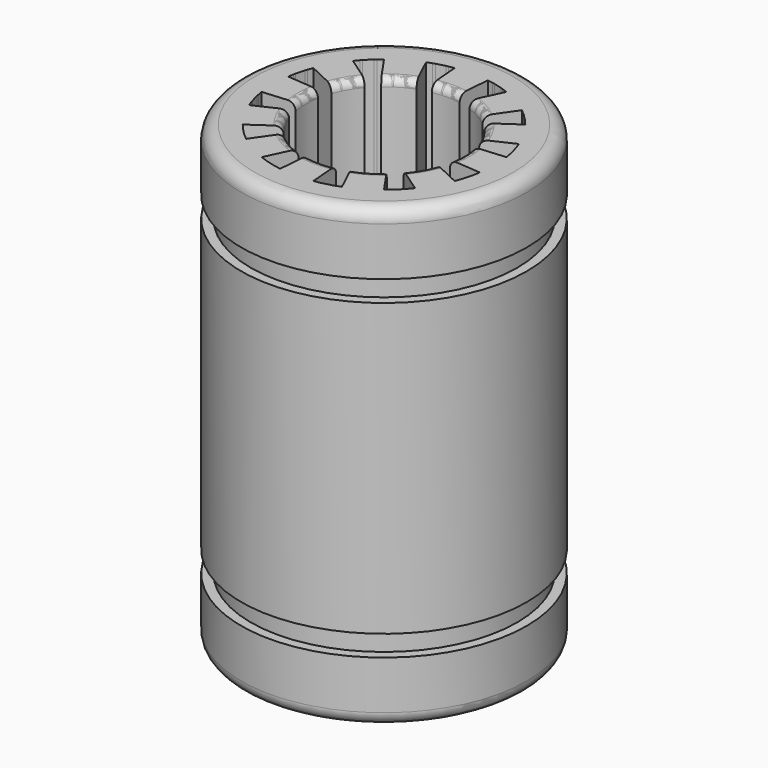
from build123d import *

# Parameters (mm, degrees)
CYLINDER001_R     = 7
CYLINDER001_DEPTH = 1.1
CYLINDER_R        = 7.5
CYLINDER_DEPTH    = 1.1
SKETCH_R          = 7.5
PAD_DEPTH         = 24
FILLET_R          = 0.4
FILLET001_R       = 0.7
SKETCH001_R       = 7.5
PAD001_DEPTH      = 24
FILLET002_R       = 0.4
FILLET003_R       = 0.7


with BuildPart() as cylinder001:
    # Cylinder001 → Cylinder001 (new body)
    with BuildSketch(Plane.XY.offset(3.25)):
        Circle(CYLINDER001_R)
    extrude(amount=CYLINDER001_DEPTH)


with BuildPart() as cut:
    # Cylinder → Cylinder (new body)
    with BuildSketch(Plane.XY.offset(3.25)):
        Circle(CYLINDER_R)
    extrude(amount=CYLINDER_DEPTH)

    # Cut: cut Cylinder001
    add(cylinder001.part, mode=Mode.SUBTRACT)


with BuildPart() as clone_of_cut:
    # Clone base: copy of Cut
    add(cut.part)


with BuildPart() as clone_of_cut_1:
    # Clone placement: moved
    add(clone_of_cut.part.moved(Location((0, 0, 16.4))))


with BuildPart() as fusion:
    # Fusion base: copy of Cut
    add(cut.part)

    # Fusion: union Clone of Cut
    add(clone_of_cut_1.part)


with BuildPart() as cut001:
    # Sketch → Pad (new body)
    with BuildSketch(Plane.XY):
        Circle(SKETCH_R)
        with BuildLine():
            ThreePointArc((0.733127, 4.054248), (0, 4.12), (-0.733127, 4.054248))
            Line((-0.733127, 5.753479), (-0.733127, 4.054248))
            ThreePointArc((-0.733127, 5.753479), (-1.501152, 5.602369), (-2.241836, 5.349222))
            Line((-1.392217, 3.877645), (-2.241836, 5.349222))
            ThreePointArc((-1.392217, 3.877645), (-2.06, 3.568025), (-2.662031, 3.144518))
            Line((-2.662031, 3.144518), (-3.511649, 4.616094))
            ThreePointArc((-3.511649, 4.616094), (-4.101221, 4.101217), (-4.616097, 3.511644))
            Line((-4.616097, 3.511644), (-3.144518, 2.662031))
            ThreePointArc((-3.144518, 2.662031), (-3.568025, 2.06), (-3.877645, 1.392217))
            Line((-3.877645, 1.392217), (-5.349224, 2.24183))
            ThreePointArc((-5.349224, 2.24183), (-5.602371, 1.501146), (-5.75348, 0.733121))
            Line((-5.75348, 0.733121), (-4.054248, 0.733127))
            ThreePointArc((-4.054248, 0.733127), (-4.12, 0), (-4.054248, -0.733127))
            Line((-4.054248, -0.733127), (-5.753478, -0.733134))
            ThreePointArc((-5.753478, -0.733134), (-5.602369, -1.501153), (-5.349224, -2.241831))
            Line((-5.349224, -2.241831), (-3.877645, -1.392217))
            ThreePointArc((-3.877645, -1.392217), (-3.568025, -2.06), (-3.144518, -2.662031))
            Line((-3.144518, -2.662031), (-4.616097, -3.511645))
            ThreePointArc((-4.616097, -3.511645), (-4.101215, -4.101223), (-3.511636, -4.616104))
            Line((-3.511636, -4.616104), (-2.662031, -3.144518))
            ThreePointArc((-2.662031, -3.144518), (-2.06, -3.568025), (-1.392217, -3.877645))
            Line((-1.392217, -3.877645), (-2.24182, -5.349228))
            ThreePointArc((-2.24182, -5.349228), (-1.501143, -5.602372), (-0.733126, -5.75348))
            Line((-0.733126, -5.75348), (-0.733127, -4.054248))
            ThreePointArc((-0.733127, -4.054248), (0, -4.12), (0.733127, -4.054248))
            Line((0.733127, -4.054248), (0.733129, -5.753479))
            ThreePointArc((0.733129, -5.753479), (1.501149, -5.60237), (2.241828, -5.349225))
            Line((2.241828, -5.349225), (1.392217, -3.877645))
            ThreePointArc((1.392217, -3.877645), (2.06, -3.568025), (2.662031, -3.144518))
            Line((3.511643, -4.616099), (2.662031, -3.144518))
            ThreePointArc((3.511643, -4.616099), (4.101217, -4.101221), (4.616095, -3.511647))
            Line((3.144518, -2.662031), (4.616095, -3.511647))
            ThreePointArc((3.144518, -2.662031), (3.568025, -2.06), (3.877645, -1.392217))
            Line((5.349223, -2.241833), (3.877645, -1.392217))
            ThreePointArc((5.349223, -2.241833), (5.602374, -1.501135), (5.753483, -0.733096))
            Line((4.054248, -0.733127), (5.753483, -0.733096))
            ThreePointArc((4.054248, -0.733127), (4.12, 0), (4.054248, 0.733127))
            Line((5.753475, 0.733159), (4.054248, 0.733127))
            ThreePointArc((5.753475, 0.733159), (5.602366, 1.501166), (5.349223, 2.241834))
            Line((3.877645, 1.392217), (5.349223, 2.241834))
            ThreePointArc((3.877645, 1.392217), (3.568025, 2.06), (3.144518, 2.662031))
            Line((4.616095, 3.511647), (3.144518, 2.662031))
            ThreePointArc((4.616095, 3.511647), (4.101219, 4.10122), (3.511646, 4.616096))
            Line((2.662031, 3.144518), (3.511646, 4.616096))
            ThreePointArc((2.662031, 3.144518), (2.06, 3.568025), (1.392217, 3.877645))
            Line((2.241832, 5.349223), (1.392217, 3.877645))
            ThreePointArc((2.241832, 5.349223), (1.50115, 5.60237), (0.733127, 5.753479))
            Line((0.733127, 4.054248), (0.733127, 5.753479))
        make_face(mode=Mode.SUBTRACT)
    extrude(amount=PAD_DEPTH)

    # Fillet
    fillet_edges = [cut001.edges().sort_by_distance(p)[0] for p in [
        (-4.12, 0, 24),
        (-3.568025, 2.06, 24),
        (-2.06, 3.568025, 24),
        (0, 4.12, 24),
        (2.06, 3.568025, 24),
        (3.568025, 2.06, 24),
        (4.12, 0, 24),
        (3.568025, -2.06, 24),
        (2.06, -3.568025, 24),
        (0, -4.12, 24),
        (-2.06, -3.568025, 24),
        (-3.568025, -2.06, 24),
        (-4.12, 0, 0),
        (-3.568025, 2.06, 0),
        (-3.568025, -2.06, 0),
        (-2.06, -3.568025, 0),
        (4.12, 0, 0),
        (3.568025, 2.06, 0),
        (2.06, 3.568025, 0),
        (0, 4.12, 0),
        (3.568025, -2.06, 0),
        (-2.06, 3.568025, 0),
        (0, -4.12, 0),
        (2.06, -3.568025, 0),
    ]]
    fillet(fillet_edges, radius=FILLET_R)

    # Fillet001
    fillet001_edges = [cut001.edges().sort_by_distance(p)[0] for p in [
        (-7.5, 0, 0),
        (-7.5, 0, 24),
    ]]
    fillet(fillet001_edges, radius=FILLET001_R)

    # Cut001: cut Fusion
    add(fusion.part, mode=Mode.SUBTRACT)


with BuildPart() as clone_of_fusion:
    # Clone001 base: copy of Fusion
    add(fusion.part)


with BuildPart() as cut002:
    # Sketch001 → Pad001 (new body)
    with BuildSketch(Plane.XY):
        Circle(SKETCH001_R)
        with BuildLine():
            ThreePointArc((0.733127, 4.054248), (0, 4.12), (-0.733127, 4.054248))
            Line((-0.872701, 5.733968), (-0.733127, 4.054248))
            ThreePointArc((-0.872701, 5.733968), (-1.50115, 5.60237), (-2.111203, 5.402113))
            Line((-1.392217, 3.877645), (-2.111203, 5.402113))
            ThreePointArc((-1.392217, 3.877645), (-2.06, 3.568025), (-2.662031, 3.144518))
            Line((-2.662031, 3.144518), (-3.622766, 4.529411))
            ThreePointArc((-3.622766, 4.529411), (-4.101219, 4.101219), (-4.529411, 3.622766))
            Line((-4.529411, 3.622766), (-3.144518, 2.662031))
            ThreePointArc((-3.144518, 2.662031), (-3.568025, 2.06), (-3.877645, 1.392217))
            Line((-3.877645, 1.392217), (-5.402113, 2.111203))
            ThreePointArc((-5.402113, 2.111203), (-5.60237, 1.50115), (-5.733968, 0.872701))
            Line((-5.733968, 0.872701), (-4.054248, 0.733127))
            ThreePointArc((-4.054248, 0.733127), (-4.12, 0), (-4.054248, -0.733127))
            Line((-4.054248, -0.733127), (-5.733968, -0.872701))
            ThreePointArc((-5.733968, -0.872701), (-5.60237, -1.50115), (-5.402113, -2.111203))
            Line((-5.402113, -2.111203), (-3.877645, -1.392217))
            ThreePointArc((-3.877645, -1.392217), (-3.568025, -2.06), (-3.144518, -2.662031))
            Line((-3.144518, -2.662031), (-4.529411, -3.622766))
            ThreePointArc((-4.529411, -3.622766), (-4.101219, -4.101219), (-3.622766, -4.529411))
            Line((-3.622766, -4.529411), (-2.662031, -3.144518))
            ThreePointArc((-2.662031, -3.144518), (-2.06, -3.568025), (-1.392217, -3.877645))
            Line((-1.392217, -3.877645), (-2.111203, -5.402113))
            ThreePointArc((-2.111203, -5.402113), (-1.50115, -5.60237), (-0.872701, -5.733968))
            Line((-0.872701, -5.733968), (-0.733127, -4.054248))
            ThreePointArc((-0.733127, -4.054248), (0, -4.12), (0.733127, -4.054248))
            Line((0.733127, -4.054248), (0.872701, -5.733968))
            ThreePointArc((0.872701, -5.733968), (1.50115, -5.60237), (2.111203, -5.402113))
            Line((2.111203, -5.402113), (1.392217, -3.877645))
            ThreePointArc((1.392217, -3.877645), (2.06, -3.568025), (2.662031, -3.144518))
            Line((3.622766, -4.529411), (2.662031, -3.144518))
            ThreePointArc((3.622766, -4.529411), (4.101219, -4.101219), (4.529411, -3.622766))
            Line((3.144518, -2.662031), (4.529411, -3.622766))
            ThreePointArc((3.144518, -2.662031), (3.568025, -2.06), (3.877645, -1.392217))
            Line((5.402113, -2.111203), (3.877645, -1.392217))
            ThreePointArc((5.402113, -2.111203), (5.60237, -1.50115), (5.733968, -0.872701))
            Line((4.054248, -0.733127), (5.733968, -0.872701))
            ThreePointArc((4.054248, -0.733127), (4.12, 0), (4.054248, 0.733127))
            Line((5.733968, 0.872701), (4.054248, 0.733127))
            ThreePointArc((5.733968, 0.872701), (5.60237, 1.50115), (5.402113, 2.111203))
            Line((3.877645, 1.392217), (5.402113, 2.111203))
            ThreePointArc((3.877645, 1.392217), (3.568025, 2.06), (3.144518, 2.662031))
            Line((4.529411, 3.622766), (3.144518, 2.662031))
            ThreePointArc((4.529411, 3.622766), (4.101219, 4.101219), (3.622766, 4.529411))
            Line((2.662031, 3.144518), (3.622766, 4.529411))
            ThreePointArc((2.662031, 3.144518), (2.06, 3.568025), (1.392217, 3.877645))
            Line((2.111203, 5.402113), (1.392217, 3.877645))
            ThreePointArc((2.111203, 5.402113), (1.50115, 5.60237), (0.872701, 5.733968))
            Line((0.733127, 4.054248), (0.872701, 5.733968))
        make_face(mode=Mode.SUBTRACT)
    extrude(amount=PAD001_DEPTH)

    # Fillet002
    fillet002_edges = [cut002.edges().sort_by_distance(p)[0] for p in [
        (-2.06, 3.568025, 24),
        (0, 4.12, 24),
        (2.06, 3.568025, 24),
        (3.568025, 2.06, 24),
        (4.12, 0, 24),
        (3.568025, -2.06, 24),
        (2.06, -3.568025, 24),
        (0, -4.12, 24),
        (-2.06, -3.568025, 24),
        (-3.568025, -2.06, 24),
        (-4.12, 0, 24),
        (-3.568025, 2.06, 24),
        (-3.568025, -2.06, 0),
        (-2.06, -3.568025, 0),
        (0, -4.12, 0),
        (2.06, -3.568025, 0),
        (3.568025, -2.06, 0),
        (4.12, 0, 0),
        (3.568025, 2.06, 0),
        (2.06, 3.568025, 0),
        (0, 4.12, 0),
        (-2.06, 3.568025, 0),
        (-3.568025, 2.06, 0),
        (-4.12, 0, 0),
    ]]
    fillet(fillet002_edges, radius=FILLET002_R)

    # Fillet003
    fillet003_edges = [cut002.edges().sort_by_distance(p)[0] for p in [
        (-7.5, 0, 0),
        (-7.5, 0, 24),
    ]]
    fillet(fillet003_edges, radius=FILLET003_R)

    # Cut002: cut Clone of Fusion
    add(clone_of_fusion.part, mode=Mode.SUBTRACT)


solid = Compound([cut001.part, cut002.part])
